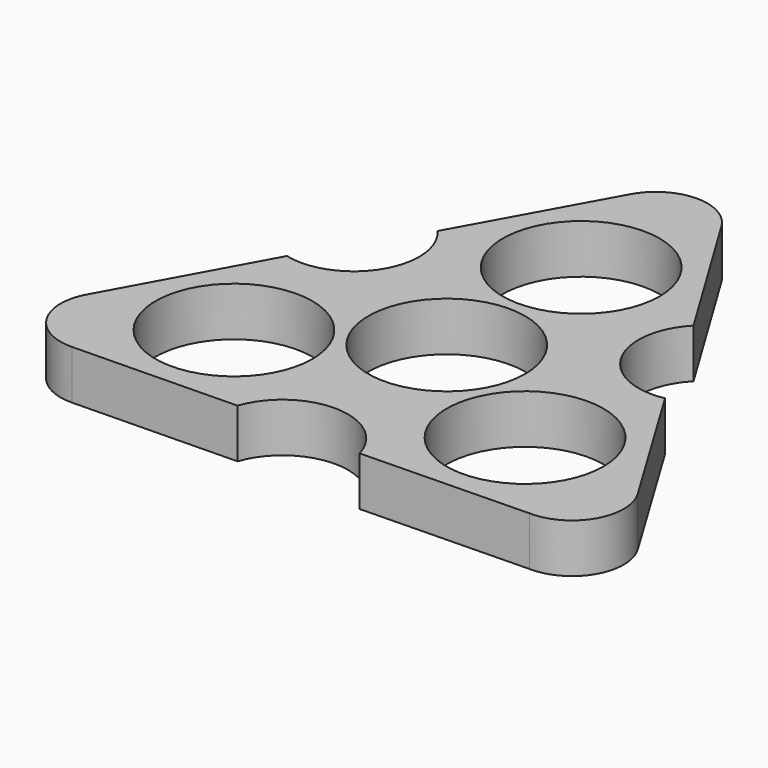
from build123d import *

# Parameters (mm, degrees)
F0_R     = 11.2
F1_DEPTH = 7


with BuildPart() as f1:
    # F0 (on Top) → F1 (new body)
    with BuildSketch(Plane.XY):
        with BuildLine():
            ThreePointArc((-9.062267, -26.009532), (0.038586, -19.70005), (8.779219, -26.499786))
            Line((8.779219, -26.499786), (32.627982, -25.973002))
            ThreePointArc((32.627982, -25.973002), (39.16908, -22.282408), (39.094679, -14.772354))
            Line((39.094679, -14.772354), (27.056049, 5.156612))
            ThreePointArc((27.056049, 5.156612), (17.041451, 9.883441), (18.559879, 20.85292))
            Line((18.559879, 20.85292), (6.179289, 41.243162))
            ThreePointArc((6.179289, 41.243162), (-0.287408, 45.062622), (-6.754105, 41.243162))
            Line((-6.754105, 41.243162), (-17.993782, 20.85292))
            ThreePointArc((-17.993782, 20.85292), (-17.080037, 9.816609), (-27.339098, 5.646867))
            Line((-27.339098, 5.646867), (-38.807271, -15.27016))
            ThreePointArc((-38.807271, -15.27016), (-38.881672, -22.780214), (-32.340573, -26.470808))
            Line((-32.340573, -26.470808), (-9.062267, -26.009532))
        make_face()
        with Locations((-20.783424, -11.999316)):
            Circle(F0_R, mode=Mode.SUBTRACT)
        Circle(F0_R, mode=Mode.SUBTRACT)
        with Locations((20.783424, -11.999316)):
            Circle(F0_R, mode=Mode.SUBTRACT)
        with Locations((0, 23.998631)):
            Circle(F0_R, mode=Mode.SUBTRACT)
    extrude(amount=F1_DEPTH)


solid = f1.part
